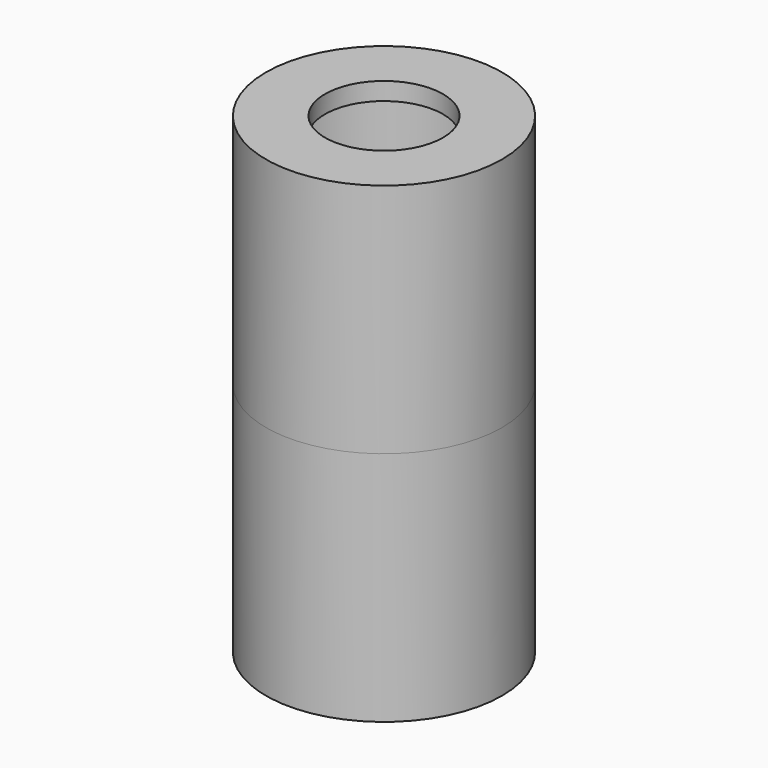
from build123d import *


with BuildPart() as f1:
    # F0 (on Front) → F1 (revolve)
    with BuildSketch(Plane.XZ):
        Polygon((20, 40), (10, 40), (10, 37), (17, 37), (17, 5), (18.7, 5), (18.7, 0), (20, 0), align=None)
    revolve(axis=Axis((0, 0, 16.183771), (0, 0, 1)))


with BuildPart() as f3:
    # F2 (on Front) → F3 (revolve)
    with BuildSketch(Plane.XZ):
        Polygon((20, -40), (20, 0), (18.4, 0), (18.4, 5), (17, 5), (17, 0), (17, -37), (10, -37), (10, -40), align=None)
    revolve(axis=Axis((0, 0, -7.997736), (0, 0, -1)))


solid = Compound([f1.part, f3.part])
